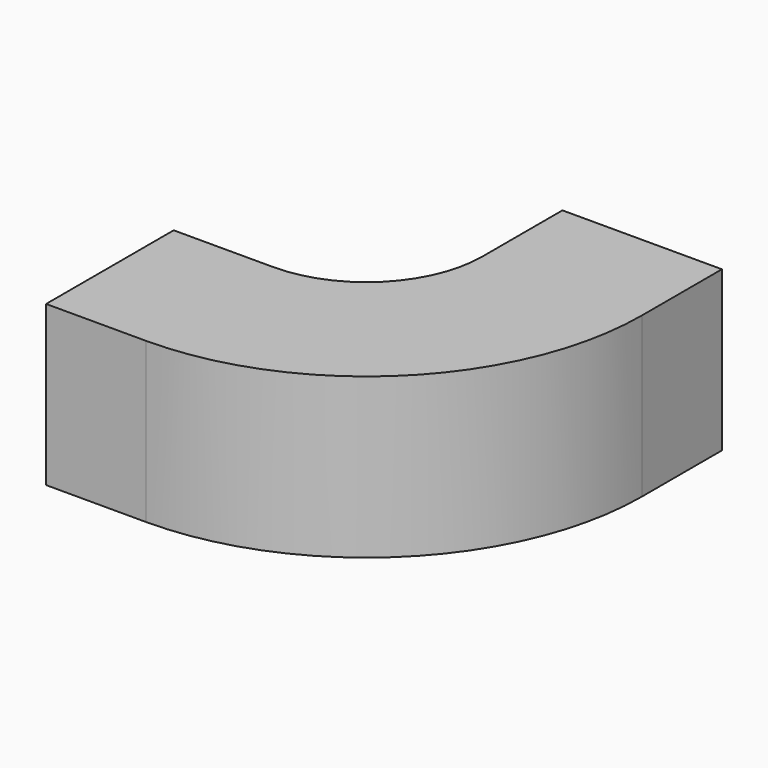
from build123d import *

# Parameters (mm, degrees)
F0_W     = 19.2
F0_H     = 19.2
F0_W_2   = 26
F0_H_2   = 26
F1_DEPTH = 19.2
F2_R     = 14
F3_R     = 33.2


with BuildPart() as f1:
    # F0 (on Top) → F1 (new body)
    with BuildSketch(Plane.XY):
        with Locations((13, 0)):
            Rectangle(F0_W, F0_H)
        with Locations((-9.6, 0)):
            Rectangle(F0_W_2, F0_H)
        with Locations((13, 22.6)):
            Rectangle(F0_W, F0_H_2)
    extrude(amount=F1_DEPTH)

    # F2
    f2_edges = [f1.edges().sort_by_distance(p)[0] for p in [
        (3.4, 9.6, 9.6),
    ]]
    fillet(f2_edges, radius=F2_R)

    # F3
    f3_edges = [f1.edges().sort_by_distance(p)[0] for p in [
        (22.6, -9.6, 9.6),
    ]]
    fillet(f3_edges, radius=F3_R)


solid = f1.part
